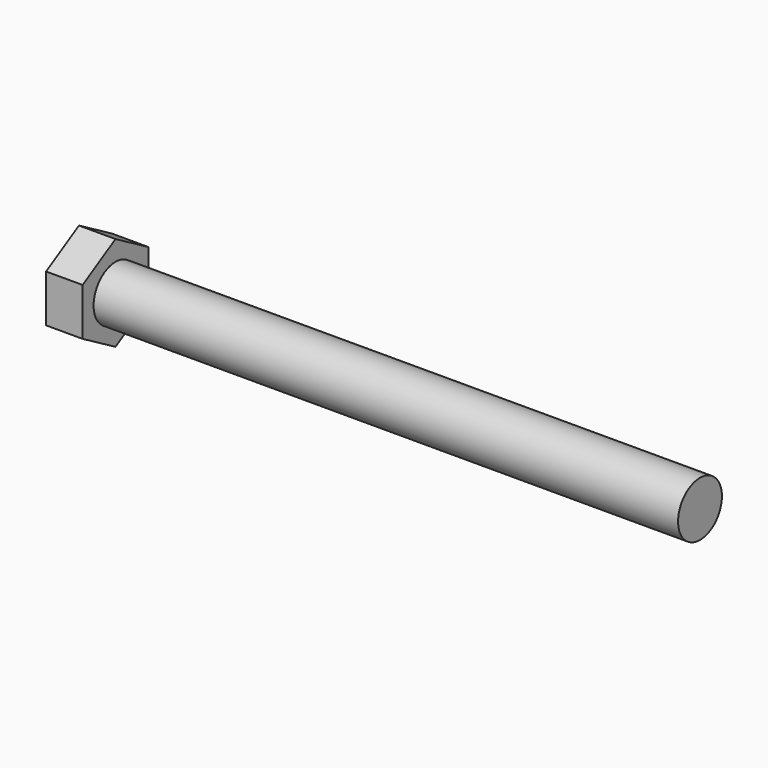
from build123d import *

# Parameters (mm, degrees)
F0_R     = 4.7625
F1_DEPTH = 6.35
F2_DEPTH = 101.6


with BuildPart() as f1:
    # F0 (on Right) → F1 (new body)
    with BuildSketch(Plane.YZ):
        Polygon((7.14375, -4.124446), (7.14375, 4.124446), (0, 8.248892), (-7.14375, 4.124446), (-7.14375, -4.124446), (0, -8.248892), align=None)
        Circle(F0_R, mode=Mode.SUBTRACT)
        Circle(F0_R)
    extrude(amount=-F1_DEPTH)

    # F0 (on Right) → F2 (join)
    with BuildSketch(Plane.YZ):
        Circle(F0_R)
    extrude(amount=F2_DEPTH)


solid = f1.part
